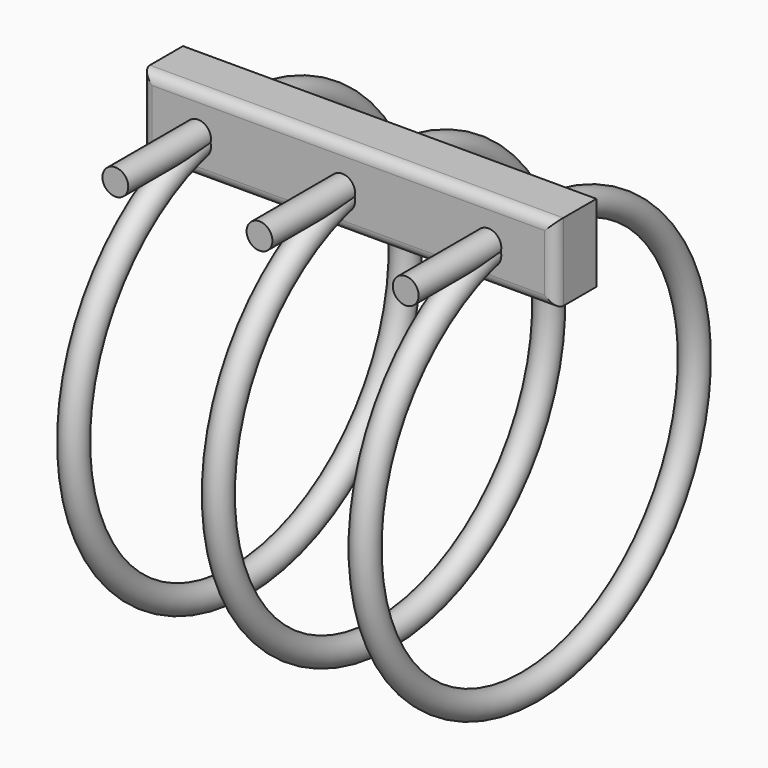
from build123d import *

# Parameters (mm, degrees)
F1_R     = 6.35
F3_DEPTH = 76.2
F0_W     = 203.2
F0_H     = 38.1
F4_DEPTH = 25.4
F5_R     = 5.08


with BuildPart() as f2:
    # F1 (on face) → F2 (revolve)
    with BuildSketch(Plane.XZ):
        with Locations((-11.442029, 101.845026)):
            Circle(F1_R)
        with Locations((59.409678, 101.510823)):
            Circle(F1_R)
        with Locations((131.264001, 101.176612)):
            Circle(F1_R)
    revolve(axis=Axis((0.598207, 0, 0), (1, 0, 0)))


with BuildPart() as f3:
    # F1 (on face) → F3 (new body)
    with BuildSketch(Plane.XZ):
        with Locations((-11.442029, 101.845026)):
            Circle(F1_R)
        with Locations((59.409678, 101.510823)):
            Circle(F1_R)
        with Locations((131.264001, 101.176612)):
            Circle(F1_R)
    extrude(amount=F3_DEPTH)


with BuildPart() as f4:
    # F0 (on Front) → F4 (new body)
    with BuildSketch(Plane.XZ):
        with Locations((62.417534, 101.6)):
            Rectangle(F0_W, F0_H)
    extrude(amount=F4_DEPTH)

    # F5
    f5_edges = [f4.edges().sort_by_distance(p)[0] for p in [
        (62.417534, -25.4, 82.55),
        (164.017534, -25.4, 101.6),
        (62.417534, -25.4, 120.65),
        (-39.182466, -25.4, 101.6),
    ]]
    fillet(f5_edges, radius=F5_R)


solid = Compound([f2.part, f3.part, f4.part])
